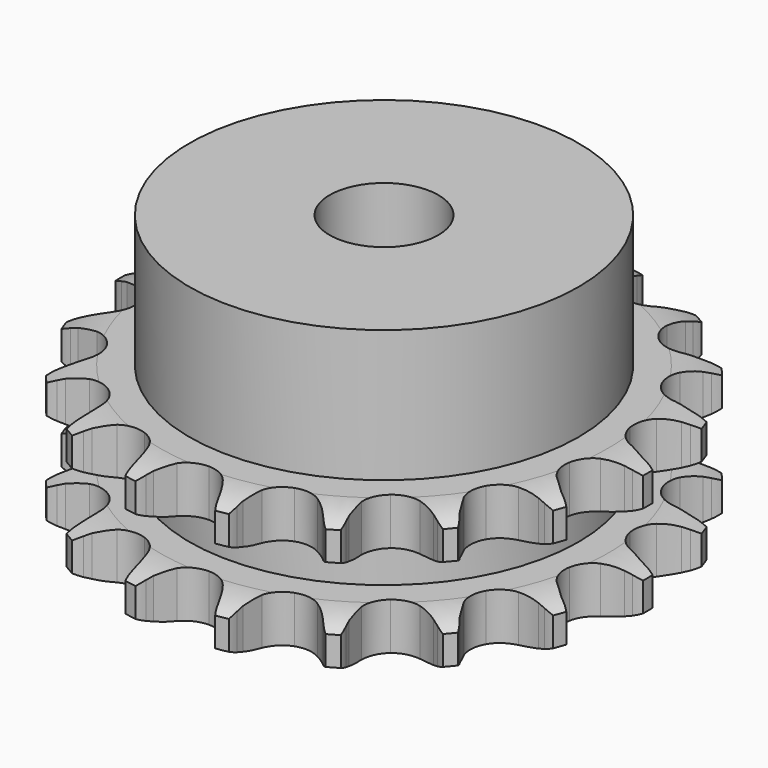
from build123d import *

# Parameters (mm, degrees)
PAD_DEPTH         = 15.4
SKETCH001_R       = 21.5
PAD001_DEPTH      = 30
SKETCH002_R       = 6
POCKET_DEPTH      = 0.001
POCKET_DEPTH_BACK = 30.001


with BuildPart() as part:
    # Sprocket → Pad (new body)
    with BuildSketch(Plane.XY):
        with BuildLine():
            ThreePointArc((-5.252647, 29.789243), (-4.498603, 28.950469), (-3.941242, 27.96992))
            Line((-3.941242, 27.96992), (-3.638207, 27.271135))
            ThreePointArc((-3.638207, 27.271135), (-3.145636, 26.311322), (-2.532859, 25.42342))
            ThreePointArc((-2.532859, 25.42342), (-1.407041, 24.519856), (0, 24.197169))
            ThreePointArc((0, 24.197169), (1.407041, 24.519856), (2.532859, 25.42342))
            ThreePointArc((2.532859, 25.42342), (3.145636, 26.311322), (3.638207, 27.271135))
            Line((3.638207, 27.271135), (3.941242, 27.96992))
            ThreePointArc((3.941242, 27.96992), (4.498603, 28.950469), (5.252647, 29.789243))
            ThreePointArc((5.252647, 29.789243), (5.67434, 28.743154), (5.86272, 27.631112))
            Line((5.86272, 27.631112), (5.908481, 26.870824))
            ThreePointArc((5.908481, 26.870824), (6.043072, 25.800426), (6.315213, 24.756488))
            ThreePointArc((6.315213, 24.756488), (7.064098, 23.522364), (8.275919, 22.737902))
            ThreePointArc((8.275919, 22.737902), (9.708471, 22.559891), (11.07543, 23.023911))
            Line((11.07543, 23.023911), (12.746073, 24.382144))
            ThreePointArc((12.746073, 24.382144), (13.001613, 24.664648), (13.269832, 24.935144))
            ThreePointArc((13.269832, 24.935144), (14.128947, 25.665929), (15.124395, 26.196221))
            ThreePointArc((15.124395, 26.196221), (15.162873, 25.068992), (14.959552, 23.959584))
            Line((14.959552, 23.959584), (14.742519, 23.229495))
            ThreePointArc((14.742519, 23.229495), (14.502895, 22.177618), (14.401577, 21.103559))
            ThreePointArc((14.401577, 21.103559), (14.683203, 19.687728), (15.553641, 18.536107))
            ThreePointArc((15.553641, 18.536107), (16.838916, 17.87887), (18.282141, 17.847379))
            Line((18.282141, 17.847379), (20.316575, 18.552307))
            ThreePointArc((20.316575, 18.552307), (20.653326, 18.730375), (20.997885, 18.892821))
            ThreePointArc((20.997885, 18.892821), (22.055132, 19.2857), (23.171918, 19.443547))
            ThreePointArc((23.171918, 19.443547), (22.82254, 18.371138), (22.252041, 17.398176))
            Line((22.252041, 17.398176), (21.798392, 16.786347))
            ThreePointArc((21.798392, 16.786347), (21.213455, 15.879861), (20.750898, 14.90523))
            ThreePointArc((20.750898, 14.90523), (20.531297, 13.478461), (20.955363, 12.098585))
            ThreePointArc((20.955363, 12.098585), (21.938339, 11.041394), (23.283756, 10.51819))
            Line((23.283756, 10.51819), (25.436599, 10.484788))
            ThreePointArc((25.436599, 10.484788), (25.813944, 10.536941), (26.193283, 10.571744))
            ThreePointArc((26.193283, 10.571744), (27.321143, 10.57933), (28.424565, 10.345696))
            ThreePointArc((28.424565, 10.345696), (27.729472, 9.457455), (26.860605, 8.738291))
            Line((26.860605, 8.738291), (26.225057, 8.318517))
            ThreePointArc((26.225057, 8.318517), (25.36536, 7.666759), (24.597354, 6.909109))
            ThreePointArc((24.597354, 6.909109), (23.903014, 5.643494), (23.82956, 4.201794))
            ThreePointArc((23.82956, 4.201794), (24.391674, 2.872163), (25.477007, 1.920352))
            Line((25.477007, 1.920352), (27.488593, 1.152649))
            ThreePointArc((27.488593, 1.152649), (27.861019, 1.072597), (28.229384, 0.97556))
            ThreePointArc((28.229384, 0.97556), (29.29182, 0.596938), (30.24879, 0))
            ThreePointArc((30.24879, 0), (29.29182, -0.596938), (28.229384, -0.97556))
            Line((28.229384, -0.97556), (27.488593, -1.152649))
            ThreePointArc((27.488593, -1.152649), (26.457828, -1.471067), (25.477007, -1.920352))
            ThreePointArc((25.477007, -1.920352), (24.391674, -2.872163), (23.82956, -4.201794))
            ThreePointArc((23.82956, -4.201794), (23.903014, -5.643494), (24.597354, -6.909109))
            Line((24.597354, -6.909109), (26.225057, -8.318517))
            ThreePointArc((26.225057, -8.318517), (26.547643, -8.521118), (26.860605, -8.738291))
            ThreePointArc((26.860605, -8.738291), (27.729472, -9.457455), (28.424565, -10.345696))
            ThreePointArc((28.424565, -10.345696), (27.321143, -10.57933), (26.193283, -10.571744))
            Line((26.193283, -10.571744), (25.436599, -10.484788))
            ThreePointArc((25.436599, -10.484788), (24.359091, -10.431461), (23.283756, -10.51819))
            ThreePointArc((23.283756, -10.51819), (21.938339, -11.041394), (20.955363, -12.098585))
            ThreePointArc((20.955363, -12.098585), (20.531297, -13.478461), (20.750898, -14.90523))
            Line((20.750898, -14.90523), (21.798392, -16.786347))
            ThreePointArc((21.798392, -16.786347), (22.032231, -17.08706), (22.252041, -17.398176))
            ThreePointArc((22.252041, -17.398176), (22.82254, -18.371138), (23.171918, -19.443547))
            ThreePointArc((23.171918, -19.443547), (22.055132, -19.2857), (20.997885, -18.892821))
            Line((20.997885, -18.892821), (20.316575, -18.552307))
            ThreePointArc((20.316575, -18.552307), (19.322288, -18.133666), (18.282141, -17.847379))
            ThreePointArc((18.282141, -17.847379), (16.838916, -17.87887), (15.553641, -18.536107))
            ThreePointArc((15.553641, -18.536107), (14.683203, -19.687728), (14.401577, -21.103559))
            Line((14.401577, -21.103559), (14.742519, -23.229495))
            ThreePointArc((14.742519, -23.229495), (14.859406, -23.592051), (14.959552, -23.959584))
            ThreePointArc((14.959552, -23.959584), (15.162873, -25.068992), (15.124395, -26.196221))
            ThreePointArc((15.124395, -26.196221), (14.128947, -25.665929), (13.269832, -24.935144))
            Line((13.269832, -24.935144), (12.746073, -24.382144))
            ThreePointArc((12.746073, -24.382144), (11.954933, -23.648684), (11.07543, -23.023911))
            ThreePointArc((11.07543, -23.023911), (9.708471, -22.559891), (8.275919, -22.737902))
            ThreePointArc((8.275919, -22.737902), (7.064098, -23.522364), (6.315213, -24.756488))
            Line((6.315213, -24.756488), (5.908481, -26.870824))
            ThreePointArc((5.908481, -26.870824), (5.894317, -27.251493), (5.86272, -27.631112))
            ThreePointArc((5.86272, -27.631112), (5.67434, -28.743154), (5.252647, -29.789243))
            ThreePointArc((5.252647, -29.789243), (4.498603, -28.950469), (3.941242, -27.96992))
            Line((3.941242, -27.96992), (3.638207, -27.271135))
            ThreePointArc((3.638207, -27.271135), (3.145636, -26.311322), (2.532859, -25.42342))
            ThreePointArc((2.532859, -25.42342), (1.407041, -24.519856), (0, -24.197169))
            ThreePointArc((0, -24.197169), (-1.407041, -24.519856), (-2.532859, -25.42342))
            Line((-2.532859, -25.42342), (-3.638207, -27.271135))
            ThreePointArc((-3.638207, -27.271135), (-3.781713, -27.624002), (-3.941242, -27.96992))
            ThreePointArc((-3.941242, -27.96992), (-4.498603, -28.950469), (-5.252647, -29.789243))
            ThreePointArc((-5.252647, -29.789243), (-5.67434, -28.743154), (-5.86272, -27.631112))
            Line((-5.86272, -27.631112), (-5.908481, -26.870824))
            ThreePointArc((-5.908481, -26.870824), (-6.043072, -25.800426), (-6.315213, -24.756488))
            ThreePointArc((-6.315213, -24.756488), (-7.064098, -23.522364), (-8.275919, -22.737902))
            ThreePointArc((-8.275919, -22.737902), (-9.708471, -22.559891), (-11.07543, -23.023911))
            Line((-11.07543, -23.023911), (-12.746073, -24.382144))
            ThreePointArc((-12.746073, -24.382144), (-13.001613, -24.664648), (-13.269832, -24.935144))
            ThreePointArc((-13.269832, -24.935144), (-14.128947, -25.665929), (-15.124395, -26.196221))
            ThreePointArc((-15.124395, -26.196221), (-15.162873, -25.068992), (-14.959552, -23.959584))
            Line((-14.959552, -23.959584), (-14.742519, -23.229495))
            ThreePointArc((-14.742519, -23.229495), (-14.502895, -22.177618), (-14.401577, -21.103559))
            ThreePointArc((-14.401577, -21.103559), (-14.683203, -19.687728), (-15.553641, -18.536107))
            ThreePointArc((-15.553641, -18.536107), (-16.838916, -17.87887), (-18.282141, -17.847379))
            Line((-18.282141, -17.847379), (-20.316575, -18.552307))
            ThreePointArc((-20.316575, -18.552307), (-20.653326, -18.730375), (-20.997885, -18.892821))
            ThreePointArc((-20.997885, -18.892821), (-22.055132, -19.2857), (-23.171918, -19.443547))
            ThreePointArc((-23.171918, -19.443547), (-22.82254, -18.371138), (-22.252041, -17.398176))
            Line((-22.252041, -17.398176), (-21.798392, -16.786347))
            ThreePointArc((-21.798392, -16.786347), (-21.213455, -15.879861), (-20.750898, -14.90523))
            ThreePointArc((-20.750898, -14.90523), (-20.531297, -13.478461), (-20.955363, -12.098585))
            ThreePointArc((-20.955363, -12.098585), (-21.938339, -11.041394), (-23.283756, -10.51819))
            Line((-23.283756, -10.51819), (-25.436599, -10.484788))
            ThreePointArc((-25.436599, -10.484788), (-25.813944, -10.536941), (-26.193283, -10.571744))
            ThreePointArc((-26.193283, -10.571744), (-27.321143, -10.57933), (-28.424565, -10.345696))
            ThreePointArc((-28.424565, -10.345696), (-27.729472, -9.457455), (-26.860605, -8.738291))
            Line((-26.860605, -8.738291), (-26.225057, -8.318517))
            ThreePointArc((-26.225057, -8.318517), (-25.36536, -7.666759), (-24.597354, -6.909109))
            ThreePointArc((-24.597354, -6.909109), (-23.903014, -5.643494), (-23.82956, -4.201794))
            ThreePointArc((-23.82956, -4.201794), (-24.391674, -2.872163), (-25.477007, -1.920352))
            Line((-25.477007, -1.920352), (-27.488593, -1.152649))
            ThreePointArc((-27.488593, -1.152649), (-27.861019, -1.072597), (-28.229384, -0.97556))
            ThreePointArc((-28.229384, -0.97556), (-29.29182, -0.596938), (-30.24879, 0))
            ThreePointArc((-30.24879, 0), (-29.29182, 0.596938), (-28.229384, 0.97556))
            Line((-28.229384, 0.97556), (-27.488593, 1.152649))
            ThreePointArc((-27.488593, 1.152649), (-26.457828, 1.471067), (-25.477007, 1.920352))
            ThreePointArc((-25.477007, 1.920352), (-24.391674, 2.872163), (-23.82956, 4.201794))
            ThreePointArc((-23.82956, 4.201794), (-23.903014, 5.643494), (-24.597354, 6.909109))
            Line((-24.597354, 6.909109), (-26.225057, 8.318517))
            ThreePointArc((-26.225057, 8.318517), (-26.547643, 8.521118), (-26.860605, 8.738291))
            ThreePointArc((-26.860605, 8.738291), (-27.729472, 9.457455), (-28.424565, 10.345696))
            ThreePointArc((-28.424565, 10.345696), (-27.321143, 10.57933), (-26.193283, 10.571744))
            Line((-26.193283, 10.571744), (-25.436599, 10.484788))
            ThreePointArc((-25.436599, 10.484788), (-24.359091, 10.431461), (-23.283756, 10.51819))
            ThreePointArc((-23.283756, 10.51819), (-21.938339, 11.041394), (-20.955363, 12.098585))
            ThreePointArc((-20.955363, 12.098585), (-20.531297, 13.478461), (-20.750898, 14.90523))
            Line((-20.750898, 14.90523), (-21.798392, 16.786347))
            ThreePointArc((-21.798392, 16.786347), (-22.032231, 17.08706), (-22.252041, 17.398176))
            ThreePointArc((-22.252041, 17.398176), (-22.82254, 18.371138), (-23.171918, 19.443547))
            ThreePointArc((-23.171918, 19.443547), (-22.055132, 19.2857), (-20.997885, 18.892821))
            Line((-20.997885, 18.892821), (-20.316575, 18.552307))
            ThreePointArc((-20.316575, 18.552307), (-19.322288, 18.133666), (-18.282141, 17.847379))
            ThreePointArc((-18.282141, 17.847379), (-16.838916, 17.87887), (-15.553641, 18.536107))
            ThreePointArc((-15.553641, 18.536107), (-14.683203, 19.687728), (-14.401577, 21.103559))
            Line((-14.401577, 21.103559), (-14.742519, 23.229495))
            ThreePointArc((-14.742519, 23.229495), (-14.859406, 23.592051), (-14.959552, 23.959584))
            ThreePointArc((-14.959552, 23.959584), (-15.162873, 25.068992), (-15.124395, 26.196221))
            ThreePointArc((-15.124395, 26.196221), (-14.128947, 25.665929), (-13.269832, 24.935144))
            Line((-13.269832, 24.935144), (-12.746073, 24.382144))
            ThreePointArc((-12.746073, 24.382144), (-11.954933, 23.648684), (-11.07543, 23.023911))
            ThreePointArc((-11.07543, 23.023911), (-9.708471, 22.559891), (-8.275919, 22.737902))
            ThreePointArc((-8.275919, 22.737902), (-7.064098, 23.522364), (-6.315213, 24.756488))
            Line((-6.315213, 24.756488), (-5.908481, 26.870824))
            ThreePointArc((-5.908481, 26.870824), (-5.894317, 27.251493), (-5.86272, 27.631112))
            ThreePointArc((-5.86272, 27.631112), (-5.67434, 28.743154), (-5.252647, 29.789243))
        make_face()
    extrude(amount=PAD_DEPTH)

    # Sketch → Groove (revolve, cut)
    with BuildSketch(Plane.XZ):
        with BuildLine():
            ThreePointArc((24.791101, 0), (27.027169, 0.253206), (29.15, 1))
            Line((29.15, 1), (29.15, 4.2))
            ThreePointArc((29.15, 4.2), (27.027169, 4.946794), (24.791101, 5.2))
            Line((21.5, 5.2), (24.791101, 5.2))
            Line((21.5, 10.2), (21.5, 5.2))
            Line((24.791101, 10.2), (21.5, 10.2))
            ThreePointArc((24.791101, 10.2), (27.027169, 10.453206), (29.15, 11.2))
            Line((29.15, 11.2), (29.15, 14.4))
            ThreePointArc((29.15, 14.4), (27.027169, 15.146794), (24.791101, 15.4))
            Line((24.791101, 15.4), (34.791101, 15.4))
            Line((34.791101, 15.4), (34.791101, 0))
            Line((24.791101, 0), (34.791101, 0))
        make_face()
    revolve(axis=Axis((0, 0, 0), (0, 0, 1)), mode=Mode.SUBTRACT)

    # Sketch001 → Pad001 (join)
    with BuildSketch(Plane.XY):
        Circle(SKETCH001_R)
    extrude(amount=PAD001_DEPTH)

    # Sketch002 → Pocket (cut, two sides)
    with BuildSketch(Plane.XY) as pocket_sk:
        Circle(SKETCH002_R)
    extrude(amount=-POCKET_DEPTH, mode=Mode.SUBTRACT)
    extrude(pocket_sk.sketch, amount=POCKET_DEPTH_BACK, mode=Mode.SUBTRACT)


solid = part.part
